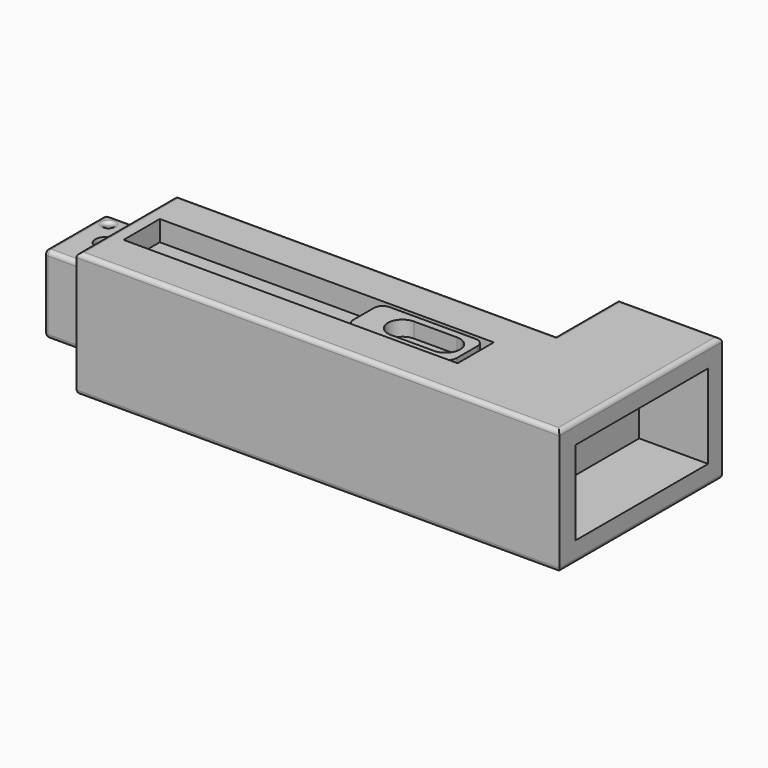
from build123d import *

# Parameters (mm, degrees)
SKETCH_W        = 100
SKETCH_H        = 18
PAD_DEPTH       = 18
FILLET_R        = 1
SKETCH001_W     = 5.8
SKETCH001_H     = 11.4
POCKET_DEPTH    = 15.5
SKETCH002_R     = 4
POCKET001_DEPTH = 88
SKETCH003_R     = 2.25
POCKET002_DEPTH = 18.001
SKETCH005_R     = 0.95
POCKET003_DEPTH = 18.001
SKETCH006_R     = 2.7625
POCKET004_DEPTH = 6
FILLET001_R     = 0.75
PAD001_DEPTH    = 5
POCKET005_DEPTH = 3.5
PAD002_DEPTH    = 29
SKETCH010_W     = 19.5
SKETCH010_H     = 19.5
POCKET006_DEPTH = 112.001
SKETCH011_W     = 18.9
SKETCH011_H     = 19.5
POCKET007_DEPTH = 16
FILLET002_R     = 1
SKETCH012_W     = 10.15
SKETCH012_H     = 12.25
POCKET008_DEPTH = 6
SKETCH013_R     = 2.15
POCKET009_DEPTH = 18.001
SKETCH014_W     = 77.5
SKETCH014_H     = 10.5
POCKET010_DEPTH = 4.75


with BuildPart() as piston:
    # Sketch → Pad (new body)
    with BuildSketch(Plane.XY):
        Rectangle(SKETCH_W, SKETCH_H)
    extrude(amount=PAD_DEPTH)

    # Fillet
    fillet_edges = [piston.edges().sort_by_distance(p)[0] for p in [
        (0, -9, 18),
        (0, 9, 18),
        (0, -9, 0),
        (0, 9, 0),
        (-50, 0, 0),
        (-50, 9, 9),
        (-50, 0, 18),
        (-50, -9, 9),
    ]]
    fillet(fillet_edges, radius=FILLET_R)

    # Sketch001 (on Face7 of Fillet) → Pocket (cut)
    with BuildSketch(Plane.XY.offset(18)):
        with Locations((43.1, 0)):
            Rectangle(SKETCH001_W, SKETCH001_H)
    extrude(amount=-POCKET_DEPTH, mode=Mode.SUBTRACT)

    # Sketch002 (on Face2 of Pocket) → Pocket001 (cut)
    with BuildSketch(Plane.YZ.offset(50)):
        with Locations((0, 9)):
            Circle(SKETCH002_R)
    extrude(amount=-POCKET001_DEPTH, mode=Mode.SUBTRACT)

    # Sketch003 (on Face7 of Pocket001) → Pocket002 (cut, through all)
    with BuildSketch(Plane.XY.offset(18)):
        with Locations((-43, 0)):
            Circle(SKETCH003_R)
    extrude(amount=-POCKET002_DEPTH, mode=Mode.SUBTRACT)

    # Sketch005 (on Face7 of Pocket002) → Pocket003 (cut, through all)
    with BuildSketch(Plane.XY.offset(18)):
        with Locations((-47, 6)):
            Circle(SKETCH005_R)
        with Locations((35, -6)):
            Circle(SKETCH005_R)
    extrude(amount=-POCKET003_DEPTH, mode=Mode.SUBTRACT)

    # Sketch006 (on Face7 of Pocket003) → Pocket004 (cut)
    with BuildSketch(Plane.XY.offset(18)):
        with Locations((35, 0)):
            Circle(SKETCH006_R)
    extrude(amount=-POCKET004_DEPTH, mode=Mode.SUBTRACT)

    # Fillet001
    fillet001_edges = [piston.edges().sort_by_distance(p)[0] for p in [
        (40.2, 0, 18),
        (-47.95, 6, 18),
    ]]
    fillet(fillet001_edges, radius=FILLET001_R)


with BuildPart() as piston_1:
    # Body placement: moved
    add(piston.part.moved(Location((0, 0, -9))))


with BuildPart() as obj1:
    # Sketch007 → Pad001 (new body)
    with BuildSketch(Plane.XY):
        with BuildLine():
            Line((-17, 5), (3, 5))
            ThreePointArc((5, 3), (4.414214, 4.414214), (3, 5))
            Line((5, 3), (5, -3))
            ThreePointArc((3, -5), (4.414214, -4.414214), (5, -3))
            Line((3, -5), (-17, -5))
            ThreePointArc((-19, -3), (-18.414214, -4.414214), (-17, -5))
            Line((-19, 3), (-19, -3))
            ThreePointArc((-17, 5), (-18.414214, 4.414214), (-19, 3))
        make_face()
        with BuildLine():
            ThreePointArc((-10, 1.725), (-11.725, 0), (-10, -1.725))
            Line((-10, -1.725), (0, -1.725))
            ThreePointArc((0, -1.725), (1.725, 0), (0, 1.725))
            Line((0, 1.725), (-10, 1.725))
        make_face(mode=Mode.SUBTRACT)
    extrude(amount=PAD001_DEPTH)

    # Sketch008 (on Face14 of Pad001) → Pocket005 (cut)
    with BuildSketch(Plane.XY.offset(5)):
        with BuildLine():
            ThreePointArc((0, -3.375), (3.375, 0), (0, 3.375))
            Line((0, 3.375), (-10, 3.375))
            ThreePointArc((-10, 3.375), (-13.375, 0), (-10, -3.375))
            Line((-10, -3.375), (0, -3.375))
        make_face()
    extrude(amount=-POCKET005_DEPTH, mode=Mode.SUBTRACT)


with BuildPart() as obj1_1:
    # Body001 placement: moved
    add(obj1.part.moved(Location((36, 0, 9))))


with BuildPart() as housing:
    # Sketch009 → Pad002 (new body)
    with BuildSketch(Plane.XY):
        Polygon((-38, 14.5), (-38, -14.5), (74, -14.5), (74, 32.65), (50, 32.65), (50, 14.5), align=None)
    extrude(amount=PAD002_DEPTH)

    # Sketch010 (on Face3 of Pad002) → Pocket006 (cut, through all)
    with BuildSketch(Plane.YZ.offset(74)):
        with Locations((0, 14.5)):
            Rectangle(SKETCH010_W, SKETCH010_H)
    extrude(amount=-POCKET006_DEPTH, mode=Mode.SUBTRACT)

    # Sketch011 (on Face11 of Pocket006) → Pocket007 (cut)
    with BuildSketch(Plane.YZ.offset(74)):
        with Locations((19.2, 14.5)):
            Rectangle(SKETCH011_W, SKETCH011_H)
    extrude(amount=-POCKET007_DEPTH, mode=Mode.SUBTRACT)

    # Fillet002
    fillet002_edges = [housing.edges().sort_by_distance(p)[0] for p in [
        (-38, 0, 29),
        (18, -14.5, 29),
        (74, 9.075, 29),
        (62, 32.65, 29),
        (50, 23.575, 29),
        (6, 14.5, 29),
        (-38, 0, 0),
        (18, -14.5, 0),
        (74, 9.075, 0),
        (62, 32.65, 0),
        (50, 23.575, 0),
        (6, 14.5, 0),
    ]]
    fillet(fillet002_edges, radius=FILLET002_R)

    # Sketch012 (on Face10 of Fillet002) → Pocket008 (cut)
    with BuildSketch(Plane(origin=(50, 0, 0), x_dir=(0, -1, 0), z_dir=(-1, 0, 0))):
        with Locations((-23.575, 14.5)):
            Rectangle(SKETCH012_W, SKETCH012_H)
    extrude(amount=-POCKET008_DEPTH, mode=Mode.SUBTRACT)

    # Sketch013 (on Face33 of Pocket008) → Pocket009 (cut, through all)
    with BuildSketch(Plane(origin=(56, 0, 0), x_dir=(0, -1, 0), z_dir=(-1, 0, 0))):
        with Locations((-23.575, 14.5)):
            Circle(SKETCH013_R)
    extrude(amount=-POCKET009_DEPTH, mode=Mode.SUBTRACT)

    # Sketch014 (on Face15 of Pocket009) → Pocket010 (cut)
    with BuildSketch(Plane.XY.offset(29)):
        with Locations((4.25, 0)):
            Rectangle(SKETCH014_W, SKETCH014_H)
    extrude(amount=-POCKET010_DEPTH, mode=Mode.SUBTRACT)


with BuildPart() as housing_1:
    # Body002 placement: moved
    add(housing.part.moved(Location((0, 0, -14.5))))


solid = Compound([piston_1.part, obj1_1.part, housing_1.part])
